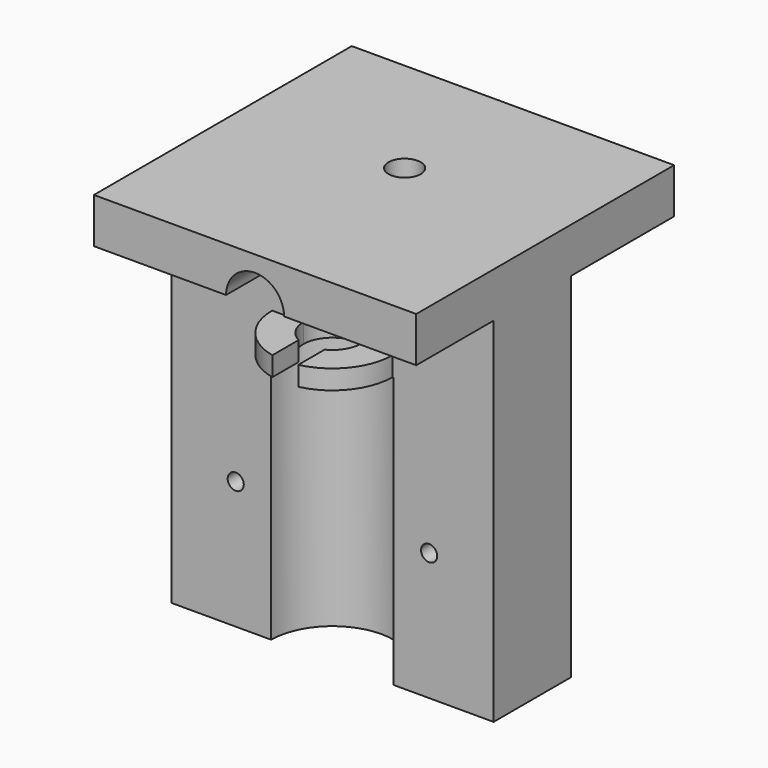
from build123d import *

# Parameters (mm, degrees)
F1_DEPTH  = 7
F4_DEPTH  = 54.8
F5_R      = 9.5
F6_DEPTH  = 42
F8_R      = 4.5
F9_DEPTH  = 25
F10_R     = 4.5
F11_DEPTH = 10.5
F12_R     = 4.5
F15_R     = 1.25
F16_DEPTH = 10
F18_DEPTH = 3
F2_R      = 2.5
F19_DEPTH = 12


with BuildPart() as f1:
    # F0 (on Top) → F1 (new body)
    with BuildSketch(Plane.XY):
        Polygon((-25, -25), (0, -25), (25, -25), (25, 25), (-25, 25), align=None)
    extrude(amount=F1_DEPTH)

    # F3 (on face) → F4 (join)
    with BuildSketch(Plane.XY):
        Polygon((-25, -10), (0, -10), (25, -10), (25, 5), (-25, 5), align=None)
    extrude(amount=-F4_DEPTH)

    # F5 (on face) → F6 (cut)
    with BuildSketch(Plane(origin=(0, 0, -54.8), x_dir=(1, 0, 0), z_dir=(0, 0, -1))):
        with Locations((0, 10)):
            Circle(F5_R)
    extrude(amount=-F6_DEPTH, mode=Mode.SUBTRACT)

    # F8 (on offset) → F9 (cut)
    with BuildSketch(Plane.XY.offset(-4.5)):
        with Locations((0, -10)):
            Circle(F8_R)
    extrude(amount=-F9_DEPTH, mode=Mode.SUBTRACT)

    # F10 (on face) → F11 (cut)
    with BuildSketch(Plane.XZ.offset(25)):
        Circle(F10_R)
    extrude(amount=-F11_DEPTH, mode=Mode.SUBTRACT)

    # F14: sweep along a path in F13
    with BuildLine(Plane.YZ) as f14_path:
        ThreePointArc((-10, -4.5), (-11.318019, -1.318019), (-14.5, 0))
    # F12 (on offset) → F14 (sweep, cut)
    with BuildSketch(Plane.XY.offset(-4.5)):
        with Locations((0, -10)):
            Circle(F12_R)
    sweep(path=f14_path.line, mode=Mode.SUBTRACT)

    # F15 (on face) → F16 (cut)
    with BuildSketch(Plane.XZ.offset(10)):
        with Locations((15, -35)):
            Circle(F15_R)
        with Locations((-15, -35)):
            Circle(F15_R)
    extrude(amount=-F16_DEPTH, mode=Mode.SUBTRACT)

    # F17 (on face) → F18 (join)
    with BuildSketch(Plane(origin=(0, 0, -12.8), x_dir=(1, 0, 0), z_dir=(0, 0, -1))):
        with BuildLine():
            Line((-2.015418, 14.023443), (-2.015418, 19.130202))
            ThreePointArc((-2.015418, 19.130202), (0, 0.65), (2.015418, 19.130202))
            Line((2.015418, 19.130202), (2.015418, 14.023443))
            ThreePointArc((2.015418, 14.023443), (0, 5.5), (-2.015418, 14.023443))
        make_face()
    extrude(amount=-F18_DEPTH)

    # F2 (on face) → F19 (cut)
    with BuildSketch(Plane.XY.offset(7)):
        with Locations((0, 4)):
            Circle(F2_R)
    extrude(amount=-F19_DEPTH, mode=Mode.SUBTRACT)


solid = f1.part
